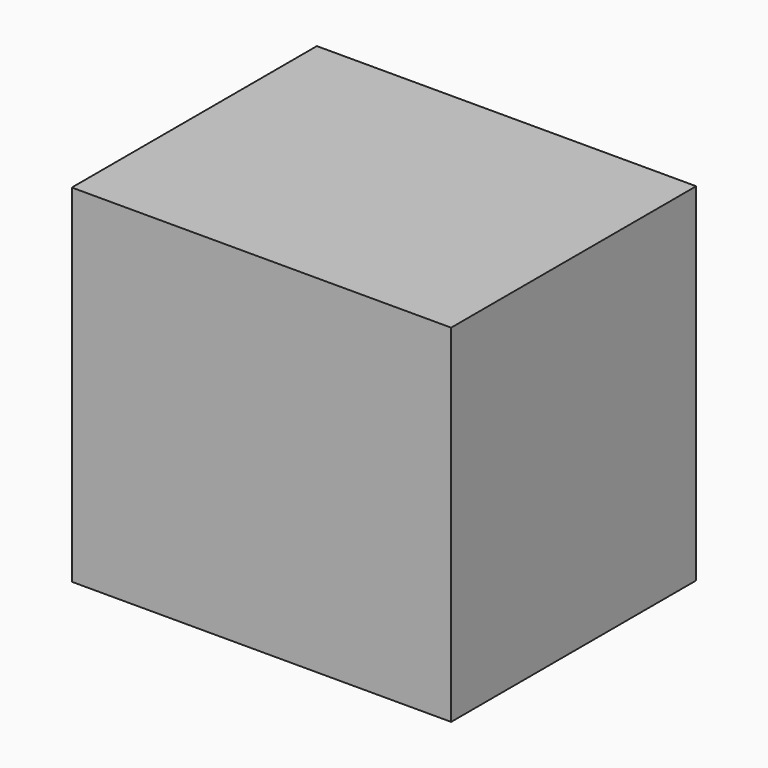
from build123d import *

# Parameters (mm, degrees)
F0_W      = 31.4542502165
F0_H      = 29.2897596955
F1_DEPTH  = 25.4
F1_FACE_W = 31.4542502165
F1_FACE_H = 25.4
F2_DEPTH  = 0.508
F2_TAPER  = -30


with BuildPart() as f1:
    # F0 (on Front) → F1 (new body)
    with BuildSketch(Plane.XZ):
        Rectangle(F0_W, F0_H)
    extrude(amount=F1_DEPTH)

    # F1_face (on face) → F2 (cut)
    with BuildSketch(Plane(origin=(0, -12.7, 14.6448798478), x_dir=(1, 0, 0), z_dir=(0, 0, 1))):
        Rectangle(F1_FACE_W, F1_FACE_H)
    extrude(amount=-F2_DEPTH, taper=F2_TAPER, mode=Mode.SUBTRACT)


solid = f1.part
